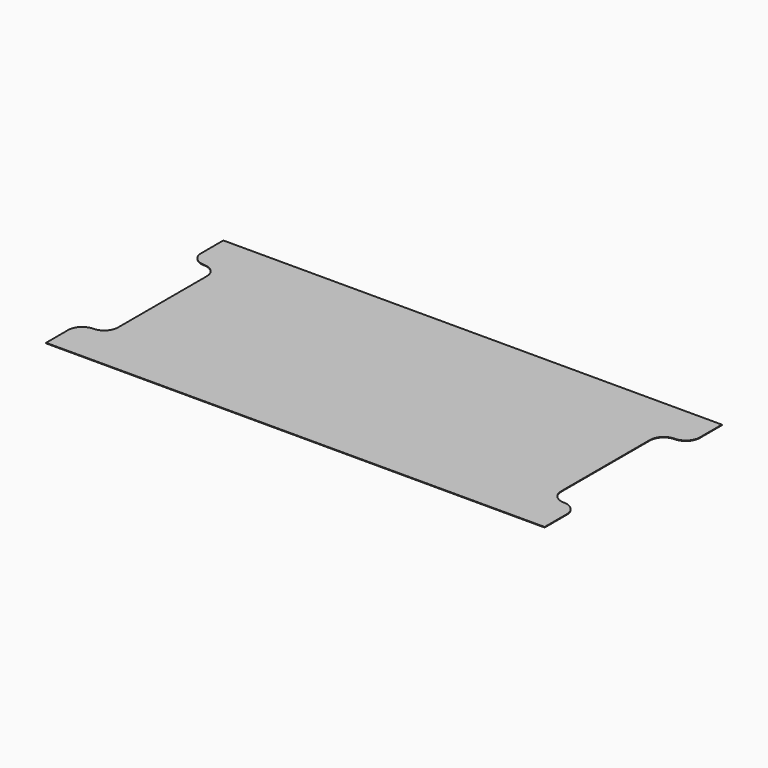
from build123d import *

# Parameters (mm, degrees)
F1_DEPTH = 0.254


with BuildPart() as f1:
    # F0 (on Top) → F1 (new body)
    with BuildSketch(Plane.XY):
        with BuildLine():
            Line((114.3, 50.8), (0, 50.8))
            Line((0, 50.8), (-114.3, 50.8))
            Line((-114.3, 50.8), (-114.3, 38.1))
            ThreePointArc((-114.3, 38.1), (-112.440128, 33.609872), (-107.95, 31.75))
            ThreePointArc((-107.95, 31.75), (-103.459872, 29.890128), (-101.6, 25.4))
            Line((-101.6, 25.4), (-101.6, 0))
            Line((-101.6, 0), (-101.6, -25.4))
            ThreePointArc((-101.6, -25.4), (-103.459872, -29.890128), (-107.95, -31.75))
            ThreePointArc((-107.95, -31.75), (-112.440128, -33.609872), (-114.3, -38.1))
            Line((-114.3, -38.1), (-114.3, -50.8))
            Line((-114.3, -50.8), (0, -50.8))
            Line((0, -50.8), (114.3, -50.8))
            Line((114.3, -50.8), (114.3, -38.1))
            ThreePointArc((114.3, -38.1), (112.440128, -33.609872), (107.95, -31.75))
            ThreePointArc((107.95, -31.75), (103.459872, -29.890128), (101.6, -25.4))
            Line((101.6, -25.4), (101.6, 0))
            Line((101.6, 0), (101.6, 25.4))
            ThreePointArc((101.6, 25.4), (103.459872, 29.890128), (107.95, 31.75))
            ThreePointArc((107.95, 31.75), (112.440128, 33.609872), (114.3, 38.1))
            Line((114.3, 38.1), (114.3, 50.8))
        make_face()
    extrude(amount=F1_DEPTH)


solid = f1.part
